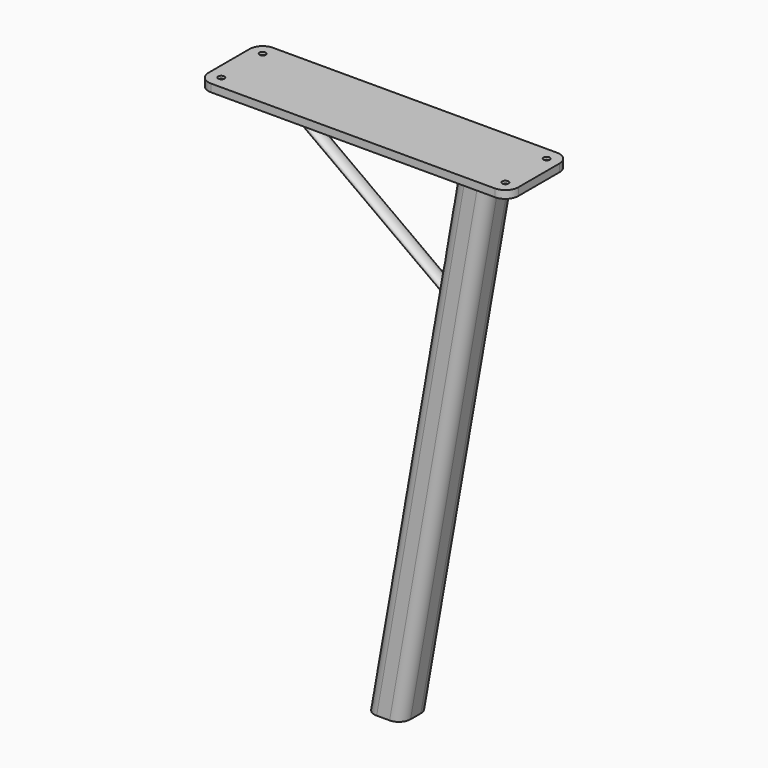
from build123d import *

# Parameters (mm, degrees)
F1_R           = 2.5
F2_DEPTH       = 3
F3_D           = 2.4
F3_CBORE_D     = 4.4
F3_CBORE_DEPTH = 2


with BuildPart() as f2:
    # F1 (on Top) → F2 (new body)
    with BuildSketch(Plane.XY):
        with BuildLine():
            Line((-55, -15), (55, -15))
            ThreePointArc((55, -15), (58.5355339059, -13.5355339059), (60, -10))
            Line((60, -10), (60, 10))
            ThreePointArc((60, 10), (58.5355339059, 13.5355339059), (55, 15))
            Line((55, 15), (-55, 15))
            ThreePointArc((-55, 15), (-58.5355339059, 13.5355339059), (-60, 10))
            Line((-60, 10), (-60, -10))
            ThreePointArc((-60, -10), (-58.5355339059, -13.5355339059), (-55, -15))
        make_face()
        with Locations((-40, 0)):
            Circle(F1_R, mode=Mode.SUBTRACT)
        with BuildLine():
            ThreePointArc((42.5, 7), (45.6819805153, 5.6819805153), (47, 2.5))
            Line((47, 2.5), (47, -2.5))
            ThreePointArc((47, -2.5), (45.6819805153, -5.6819805153), (42.5, -7))
            Line((42.5, -7), (37.5, -7))
            ThreePointArc((37.5, -7), (34.3180194847, -5.6819805153), (33, -2.5))
            Line((33, -2.5), (33, 2.5))
            ThreePointArc((33, 2.5), (34.3180194847, 5.6819805153), (37.5, 7))
            Line((37.5, 7), (42.5, 7))
        make_face(mode=Mode.SUBTRACT)
        with BuildLine():
            Line((47, -2.5), (47, 2.5))
            ThreePointArc((47, 2.5), (45.6819805153, 5.6819805153), (42.5, 7))
            Line((42.5, 7), (37.5, 7))
            ThreePointArc((37.5, 7), (34.3180194847, 5.6819805153), (33, 2.5))
            Line((33, 2.5), (33, -2.5))
            ThreePointArc((33, -2.5), (34.3180194847, -5.6819805153), (37.5, -7))
            Line((37.5, -7), (42.5, -7))
            ThreePointArc((42.5, -7), (45.6819805153, -5.6819805153), (47, -2.5))
        make_face()
        with BuildLine():
            ThreePointArc((35, 2.5), (35.732233047, 4.267766953), (37.5, 5))
            Line((37.5, 5), (42.5, 5))
            ThreePointArc((42.5, 5), (44.267766953, 4.267766953), (45, 2.5))
            Line((45, 2.5), (45, -2.5))
            ThreePointArc((45, -2.5), (44.267766953, -4.267766953), (42.5, -5))
            Line((42.5, -5), (37.5, -5))
            ThreePointArc((37.5, -5), (35.732233047, -4.267766953), (35, -2.5))
            Line((35, -2.5), (35, 2.5))
        make_face(mode=Mode.SUBTRACT)
        with BuildLine():
            Line((42.5, 5), (37.5, 5))
            ThreePointArc((37.5, 5), (35.732233047, 4.267766953), (35, 2.5))
            Line((35, 2.5), (35, -2.5))
            ThreePointArc((35, -2.5), (35.732233047, -4.267766953), (37.5, -5))
            Line((37.5, -5), (42.5, -5))
            ThreePointArc((42.5, -5), (44.267766953, -4.267766953), (45, -2.5))
            Line((45, -2.5), (45, 2.5))
            ThreePointArc((45, 2.5), (44.267766953, 4.267766953), (42.5, 5))
        make_face()
        with Locations((-40, 0)):
            Circle(F1_R)
    extrude(amount=F2_DEPTH)

    # F3 (through all)
    with Locations(Plane(origin=(0, 0, 0), x_dir=(1, 0, 0), z_dir=(0, 0, -1))):
        with Locations((55, -10), (-55, -10), (-55, 10), (55, 10)):
            CounterBoreHole(F3_D / 2, F3_CBORE_D / 2, F3_CBORE_DEPTH)

    # F5: sweep along a path in F4
    with BuildLine(Plane.XZ) as f5_path:
        Line((40, 0), (5.2703644666, -196.9615506024))
    # F1 (on Top) → F5 (sweep)
    with BuildSketch(Plane.XY):
        with BuildLine():
            Line((47, -2.5), (47, 2.5))
            ThreePointArc((47, 2.5), (45.6819805153, 5.6819805153), (42.5, 7))
            Line((42.5, 7), (37.5, 7))
            ThreePointArc((37.5, 7), (34.3180194847, 5.6819805153), (33, 2.5))
            Line((33, 2.5), (33, -2.5))
            ThreePointArc((33, -2.5), (34.3180194847, -5.6819805153), (37.5, -7))
            Line((37.5, -7), (42.5, -7))
            ThreePointArc((42.5, -7), (45.6819805153, -5.6819805153), (47, -2.5))
        make_face()
        with BuildLine():
            ThreePointArc((35, 2.5), (35.732233047, 4.267766953), (37.5, 5))
            Line((37.5, 5), (42.5, 5))
            ThreePointArc((42.5, 5), (44.267766953, 4.267766953), (45, 2.5))
            Line((45, 2.5), (45, -2.5))
            ThreePointArc((45, -2.5), (44.267766953, -4.267766953), (42.5, -5))
            Line((42.5, -5), (37.5, -5))
            ThreePointArc((37.5, -5), (35.732233047, -4.267766953), (35, -2.5))
            Line((35, -2.5), (35, 2.5))
        make_face(mode=Mode.SUBTRACT)
    sweep(path=f5_path.line)

    # F6: sweep along a path in F4
    with BuildLine(Plane.XZ) as f6_path:
        Line((30.898421792, -51.6176150207), (-40, 0))
    # F1 (on Top) → F6 (sweep)
    with BuildSketch(Plane.XY):
        with Locations((-40, 0)):
            Circle(F1_R)
    sweep(path=f6_path.line)


solid = f2.part
